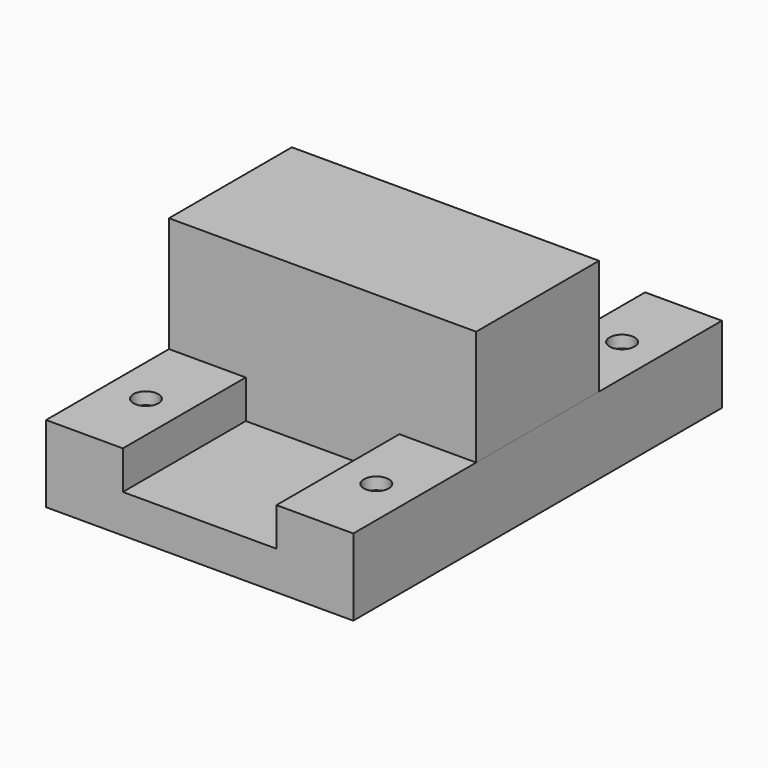
from build123d import *

# Parameters (mm, degrees)
F1_DEPTH       = 76.2
F3_DEPTH       = 25.4
F5_D           = 5
F5_CBORE_D     = 8.25
F5_CBORE_DEPTH = 4


with BuildPart() as f1:
    # F0 (on Front) → F1 (new body, symmetric)
    with BuildSketch(Plane.XZ):
        Polygon((50.8, 0), (50.8, 25.4), (25.4, 25.4), (25.4, 12.7), (0, 12.7), (-25.4, 12.7), (-25.4, 25.4), (-50.8, 25.4), (-50.8, 0), (0, 0), align=None)
    extrude(amount=F1_DEPTH, both=True)

    # F5 (through all)
    with Locations(Plane.XY.offset(25.4)):
        with Locations((-38.1, 50.8), (38.1, 50.8), (38.1, -50.8), (-38.1, -50.8)):
            CounterBoreHole(F5_D / 2, F5_CBORE_D / 2, F5_CBORE_DEPTH)


with BuildPart() as f3:
    # F2 (on Front) → F3 (new body, symmetric)
    with BuildSketch(Plane.XZ):
        Polygon((-25.4, 25.4), (-25.4, 12.7), (25.4, 12.7), (25.4, 25.4), (50.8, 25.4), (50.8, 63.5), (-50.8, 63.5), (-50.8, 25.4), align=None)
    extrude(amount=F3_DEPTH, both=True)


solid = Compound([f1.part, f3.part])
